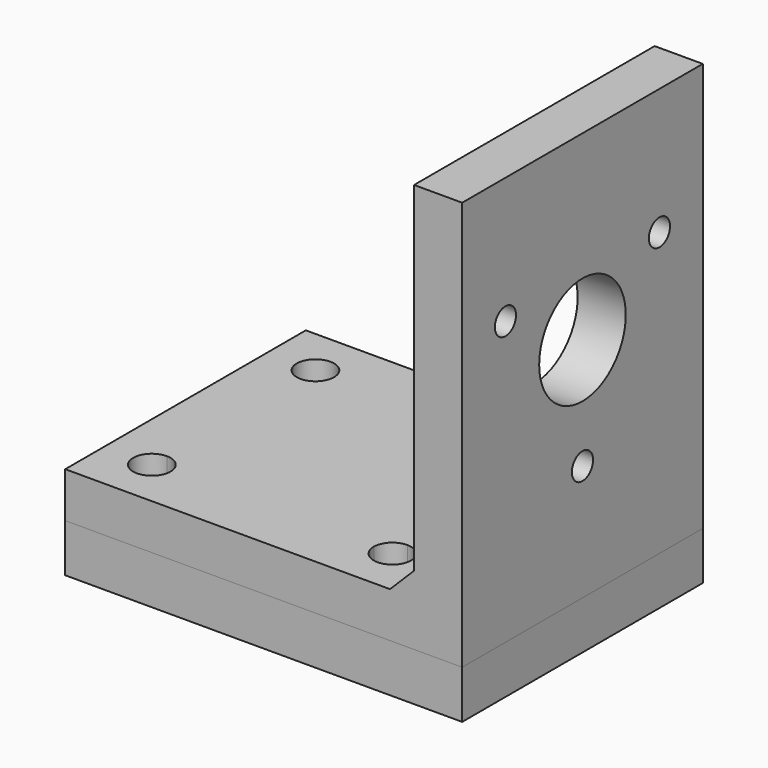
from build123d import *

# Parameters (mm, degrees)
F0_W     = 29
F0_H     = 3.76617883
F0_W_2   = 4
F0_H_2   = 30.23382117
F1_DEPTH = 25
F2_R     = 1.1
F2_R_2   = 4.5
F3_DEPTH = 25
F5_DEPTH = 25
F6_DEPTH = 4
F7_SIZE  = 2


with BuildPart() as f1:
    # F0 (on Front) → F1 (new body)
    with BuildSketch(Plane.XZ):
        with Locations((14.5, 1.883089415)):
            Rectangle(F0_W, F0_H)
        with Locations((31, 1.883089415)):
            Rectangle(F0_W_2, F0_H)
        with Locations((31, 18.883089415)):
            Rectangle(F0_W_2, F0_H_2)
    extrude(amount=F1_DEPTH)

    # F2 (on face) → F3 (cut)
    with BuildSketch(Plane(origin=(29, 0, 0), x_dir=(0, -1, 0), z_dir=(-1, 0, 0))):
        with Locations((4.4991129581, 23.5033831761)):
            Circle(F2_R)
        with Locations((20.5024139551, 23.5019139032)):
            Circle(F2_R)
        with Locations((12.4994910289, 9.6433833319)):
            Circle(F2_R)
        with Locations((12.5, 18.8833833319)):
            Circle(F2_R_2)
    extrude(amount=-F3_DEPTH, mode=Mode.SUBTRACT)

    # F4 (on face) → F5 (cut)
    with BuildSketch(Plane(origin=(0, 0, 0), x_dir=(1, 0, 0), z_dir=(0, 0, -1))):
        with BuildLine():
            ThreePointArc((5.55, 21), (2.9039844892, 22.0960155108), (4, 19.45))
            Line((4, 19.45), (4, 21))
            Line((4, 21), (5.55, 21))
        make_face()
        with BuildLine():
            Line((4, 21), (4, 19.45))
            ThreePointArc((4, 19.45), (5.0960155108, 19.9039844892), (5.55, 21))
            Line((5.55, 21), (4, 21))
        make_face()
        with BuildLine():
            ThreePointArc((25.55, 21), (24, 22.55), (22.45, 21))
            Line((22.45, 21), (24, 21))
            Line((24, 21), (24, 19.45))
            ThreePointArc((24, 19.45), (25.0960155108, 19.9039844892), (25.55, 21))
        make_face()
        with BuildLine():
            Line((24, 21), (22.45, 21))
            ThreePointArc((22.45, 21), (22.9039844892, 19.9039844892), (24, 19.45))
            Line((24, 19.45), (24, 21))
        make_face()
        with BuildLine():
            Line((24, 4), (22.45, 4))
            ThreePointArc((22.45, 4), (24, 2.45), (25.55, 4))
            ThreePointArc((25.55, 4), (25.0960155108, 5.0960155108), (24, 5.55))
            Line((24, 5.55), (24, 4))
        make_face()
        with BuildLine():
            ThreePointArc((24, 5.55), (22.9039844892, 5.0960155108), (22.45, 4))
            Line((22.45, 4), (24, 4))
            Line((24, 4), (24, 5.55))
        make_face()
        with BuildLine():
            Line((4, 5.55), (4, 4))
            Line((4, 4), (5.55, 4))
            ThreePointArc((5.55, 4), (5.0960155108, 5.0960155108), (4, 5.55))
        make_face()
        with BuildLine():
            Line((5.55, 4), (4, 4))
            Line((4, 4), (4, 5.55))
            ThreePointArc((4, 5.55), (2.9039844892, 2.9039844892), (5.55, 4))
        make_face()
    extrude(amount=-F5_DEPTH, mode=Mode.SUBTRACT)


with BuildPart() as f6:
    # F6 (new): a face of the model
    f6_faces = [f1.part.faces().sort_by_distance(p)[0] for p in [
        (16.5949621048, -12.5, 0),
    ]]
    extrude(f6_faces, amount=F6_DEPTH)


with BuildPart() as f1_1:
    add(f1.part)

    # F7
    f7_edges = [f1_1.edges().sort_by_distance(p)[0] for p in [
        (29, -12.5, 3.766179),
    ]]
    chamfer(f7_edges, length=F7_SIZE)


solid = Compound([f6.part, f1_1.part])
